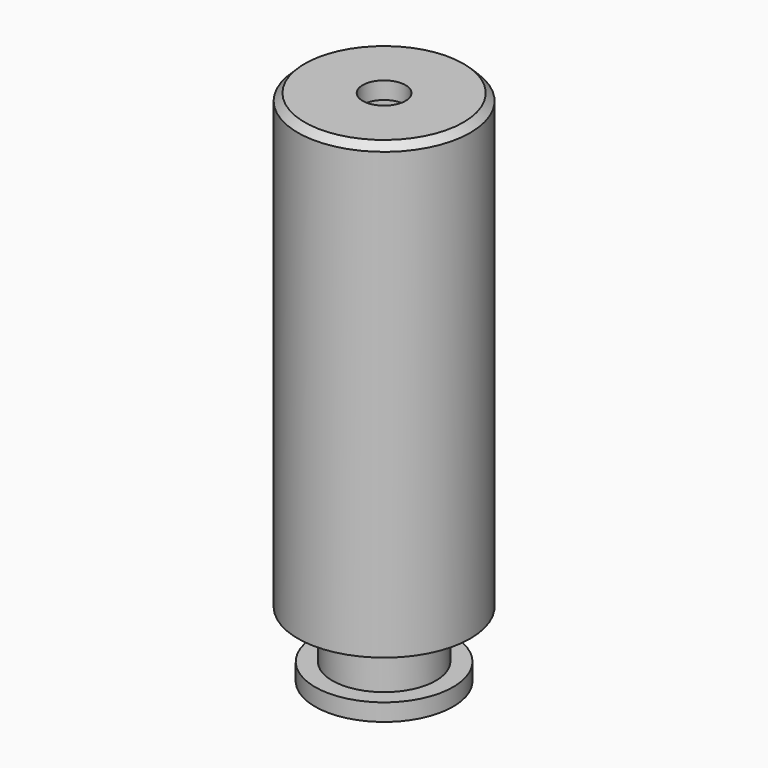
from build123d import *

# Parameters (mm, degrees)
F0_R      = 21.5
F1_DEPTH  = 40
F2_R      = 5
F3_R      = 21.5
F4_DEPTH  = 40
F5_SIZE2  = 7.5
F5_SIZE   = 40
F6_DEPTH  = 10
F7_R      = 10
F10_R     = 4.9
F11_DEPTH = 75
F12_R     = 16.5
F13_DEPTH = 5
F14_R     = 3.1
F15_DEPTH = 85.001
F16_R     = 45.5023146051
F16_R_2   = 12.5
F17_DEPTH = 100
F18_W     = 86.4328397527
F18_H     = 43.3590536159
F19_DEPTH = 25
F20_SIZE  = 1
F21_R     = 4.9
F21_R_2   = 3.1
F22_DEPTH = 2.5


with BuildPart() as f1:
    # F0 (on Top) → F1 (new body)
    with BuildSketch(Plane.XY):
        Circle(F0_R)
    extrude(amount=F1_DEPTH)

    # F2
    f2_edges = [f1.edges().sort_by_distance(p)[0] for p in [
        (-21.5, 0, 40),
    ]]
    fillet(f2_edges, radius=F2_R)

    # F3 (on face) → F4 (join)
    with BuildSketch(Plane(origin=(0, 0, 0), x_dir=(1, 0, 0), z_dir=(0, 0, -1))):
        Circle(F3_R)
    extrude(amount=F4_DEPTH)

    # F5
    f5_edges = [f1.edges().sort_by_distance(p)[0] for p in [
        (-21.5, 0, -40),
    ]]
    chamfer(f5_edges, length=F5_SIZE, length2=F5_SIZE2)

    # F6 (add): a face of the model
    f6_faces = [f1.faces().sort_by_distance(p)[0] for p in [
        (0, 0, -40),
    ]]
    extrude(f6_faces, amount=F6_DEPTH)

    # F7
    f7_edges = [f1.edges().sort_by_distance(p)[0] for p in [
        (-21.5, 0, 0),
    ]]
    fillet(f7_edges, radius=F7_R)

    # F8 (on Right) → F9 (revolve, cut)
    with BuildSketch(Plane.YZ):
        Polygon((-7.5, -40.5), (-17.4298945979, -40.5), (-17.4298945979, -47.5), (-17.4298945979, -53.659953177), (-10, -53.659953177), (-10, -47.5), (-7.5, -47.5), align=None)
    revolve(axis=Axis((0, 0, -53.4000843763), (0, 0, -1)), mode=Mode.SUBTRACT)

    # F10 (on face) → F11 (cut)
    with BuildSketch(Plane(origin=(0, 0, -50), x_dir=(1, 0, 0), z_dir=(0, 0, -1))):
        Circle(F10_R)
    extrude(amount=-F11_DEPTH, mode=Mode.SUBTRACT)

    # F12 (on face) → F13 (cut)
    with BuildSketch(Plane.XY.offset(40)):
        Circle(F12_R)
    extrude(amount=-F13_DEPTH, mode=Mode.SUBTRACT)

    # F14 (on face) → F15 (cut, through all)
    with BuildSketch(Plane.XY.offset(35)):
        Circle(F14_R)
    extrude(amount=-F15_DEPTH, mode=Mode.SUBTRACT)

    # F16 (on face) → F17 (cut)
    with BuildSketch(Plane(origin=(0, 0, -50), x_dir=(1, 0, 0), z_dir=(0, 0, -1))):
        Circle(F16_R)
        Circle(F16_R_2, mode=Mode.SUBTRACT)
    extrude(amount=-F17_DEPTH, mode=Mode.SUBTRACT)

    # F18 (on Front) → F19 (cut, symmetric)
    with BuildSketch(Plane.XZ):
        with Locations((1.7612818629, 46.679526808)):
            Rectangle(F18_W, F18_H)
    extrude(amount=F19_DEPTH, both=True, mode=Mode.SUBTRACT)

    # F20
    f20_edges = [f1.edges().sort_by_distance(p)[0] for p in [
        (-12.5, 0, 25),
    ]]
    chamfer(f20_edges, length=F20_SIZE)

    # F21 (on face) → F22 (join)
    with BuildSketch(Plane.XY.offset(25)):
        Circle(F21_R)
        Circle(F21_R_2, mode=Mode.SUBTRACT)
    extrude(amount=-F22_DEPTH)


solid = f1.part
